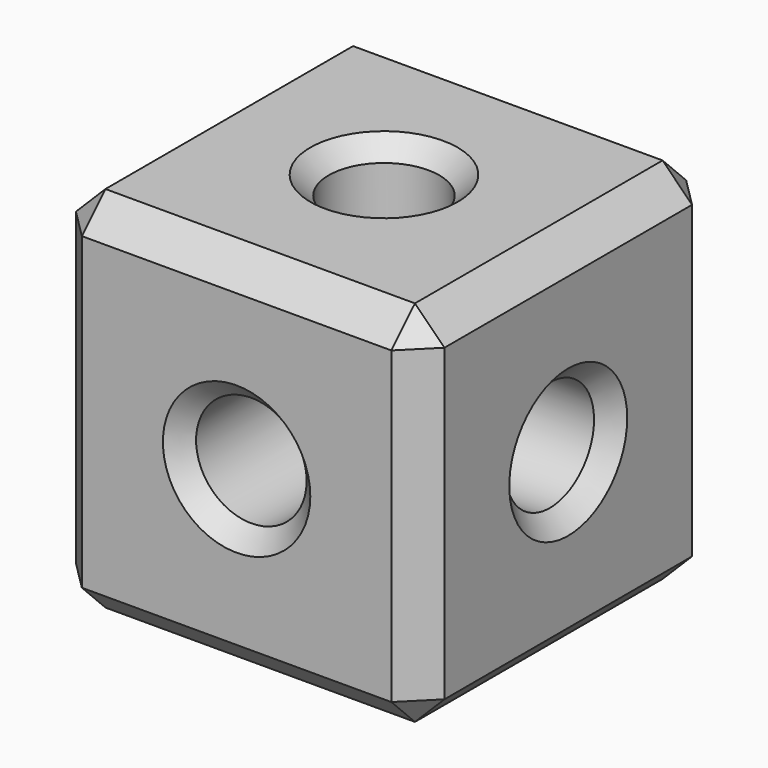
from build123d import *

# Parameters (mm, degrees)
F0_W     = 100
F0_H     = 100
F0_R     = 15
F1_DEPTH = 100
F2_R     = 15
F3_DEPTH = 300
F4_R     = 15
F5_DEPTH = 300
F6_R     = 15
F7_DEPTH = 300
F8_SIZE  = 8
F9_SIZE  = 5


with BuildPart() as f1:
    # F0 (on Front) → F1 (new body)
    with BuildSketch(Plane.XZ):
        with Locations((-50, -50)):
            Rectangle(F0_W, F0_H)
        with Locations((-50, -50)):
            Circle(F0_R, mode=Mode.SUBTRACT)
        with Locations((-50, -50)):
            Circle(F0_R)
    extrude(amount=-F1_DEPTH)

    # F2 (on face) → F3 (cut)
    with BuildSketch(Plane.YZ):
        with Locations((50, -50)):
            Circle(F2_R)
    extrude(amount=-F3_DEPTH, mode=Mode.SUBTRACT)

    # F4 (on face) → F5 (cut)
    with BuildSketch(Plane.XZ):
        with Locations((-50, -50)):
            Circle(F4_R)
    extrude(amount=-F5_DEPTH, mode=Mode.SUBTRACT)

    # F6 (on face) → F7 (cut)
    with BuildSketch(Plane.XY):
        with Locations((-50, 50)):
            Circle(F6_R)
    extrude(amount=-F7_DEPTH, mode=Mode.SUBTRACT)

    # F8
    f8_edges = [f1.edges().sort_by_distance(p)[0] for p in [
        (-50, 0, 0),
        (0, 0, -50),
        (-100, 0, -50),
        (-50, 0, -100),
        (-100, 50, 0),
        (-100, 100, -50),
        (-100, 50, -100),
        (0, 50, 0),
        (0, 100, -50),
        (0, 50, -100),
        (-50, 100, -100),
        (-50, 100, 0),
    ]]
    chamfer(f8_edges, length=F8_SIZE)

    # F9
    f9_edges = [f1.edges().sort_by_distance(p)[0] for p in [
        (-65, 0, -50),
        (0, 35, -50),
        (-65, 50, 0),
        (-100, 35, -50),
        (-65, 50, -100),
        (-65, 100, -50),
    ]]
    chamfer(f9_edges, length=F9_SIZE)


solid = f1.part
